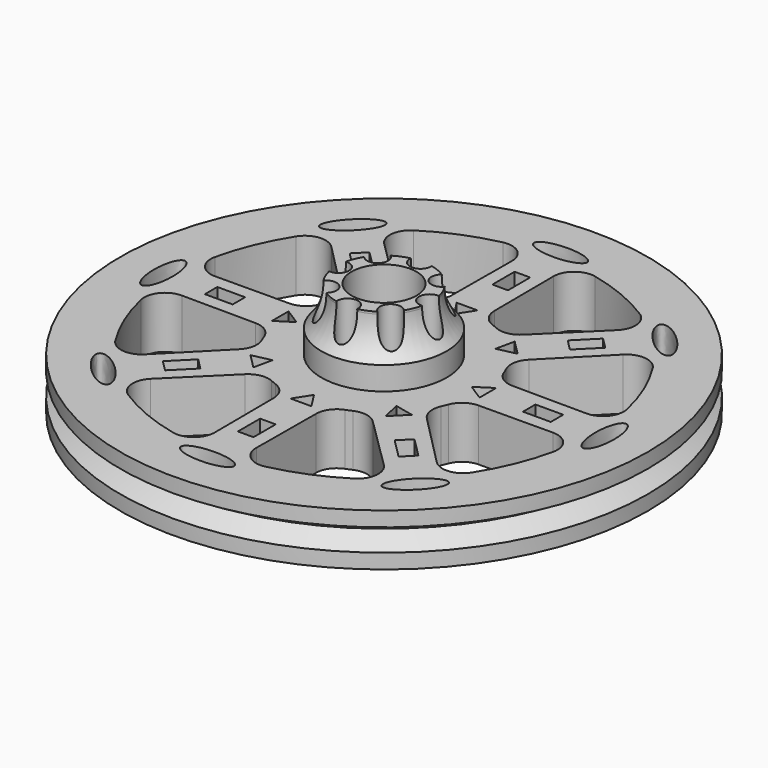
from build123d import *

# Parameters (mm, degrees)
F0_R      = 25.4
F0_R_2    = 3.125
F1_DEPTH  = 2.5
F2_R      = 6.031593
F2_R_2    = 3.125
F3_DEPTH  = 6
F4_R      = 3
F5_DEPTH  = 11.001
F6_R      = 1.008959
F7_DEPTH  = 12.7
F8_R      = 5.08
F13_DEPTH = 12.7
F15_DEPTH = 12.7
F16_W     = 1.5
F16_H     = 2.674383
F16_W_2   = 2.674383
F16_H_2   = 1.5
F17_DEPTH = 12.7


with BuildPart() as f1:
    # F0 (on Top) → F1 (new body, symmetric)
    with BuildSketch(Plane.XY):
        Circle(F0_R)
        with BuildLine():
            ThreePointArc((-10.88453, -17.158945), (-11.801786, -15.683608), (-11.218679, -14.04716))
            Line((-11.218679, -14.04716), (-6.139343, -9.030124))
            ThreePointArc((-6.139343, -9.030124), (-5.086026, -8.484282), (-3.908805, -8.631157))
            ThreePointArc((-3.908805, -8.631157), (-3.625926, -8.753759), (-3.339207, -8.867092))
            ThreePointArc((-3.339207, -8.867092), (-2.40293, -9.595657), (-2.044091, -10.726433))
            Line((-2.044091, -10.726433), (-2.000038, -17.865646))
            ThreePointArc((-2.000038, -17.865646), (-2.744862, -19.435109), (-4.436681, -19.829732))
            ThreePointArc((-4.436681, -19.829732), (-7.776127, -18.773232), (-10.88453, -17.158945))
        make_face(mode=Mode.SUBTRACT)
        with BuildLine():
            ThreePointArc((-19.829732, -4.436681), (-19.435109, -2.744862), (-17.865646, -2.000038))
            Line((-17.865646, -2.000038), (-10.726433, -2.044091))
            ThreePointArc((-10.726433, -2.044091), (-9.595657, -2.40293), (-8.867092, -3.339207))
            ThreePointArc((-8.867092, -3.339207), (-8.753759, -3.625926), (-8.631157, -3.908805))
            ThreePointArc((-8.631157, -3.908805), (-8.484282, -5.086026), (-9.030124, -6.139343))
            Line((-9.030124, -6.139343), (-14.04716, -11.218679))
            ThreePointArc((-14.04716, -11.218679), (-15.683608, -11.801786), (-17.158945, -10.88453))
            ThreePointArc((-17.158945, -10.88453), (-18.773232, -7.776127), (-19.829732, -4.436681))
        make_face(mode=Mode.SUBTRACT)
        Circle(F0_R_2, mode=Mode.SUBTRACT)
        with BuildLine():
            ThreePointArc((4.436681, -19.829732), (2.744862, -19.435109), (2.000038, -17.865646))
            Line((2.000038, -17.865646), (2.044091, -10.726433))
            ThreePointArc((2.044091, -10.726433), (2.40293, -9.595657), (3.339207, -8.867092))
            ThreePointArc((3.339207, -8.867092), (3.625926, -8.753759), (3.908805, -8.631157))
            ThreePointArc((3.908805, -8.631157), (5.086026, -8.484282), (6.139343, -9.030124))
            Line((6.139343, -9.030124), (11.218679, -14.04716))
            ThreePointArc((11.218679, -14.04716), (11.801786, -15.683608), (10.88453, -17.158945))
            ThreePointArc((10.88453, -17.158945), (7.776127, -18.773232), (4.436681, -19.829732))
        make_face(mode=Mode.SUBTRACT)
        with BuildLine():
            ThreePointArc((17.158945, -10.88453), (15.683608, -11.801786), (14.04716, -11.218679))
            Line((14.04716, -11.218679), (9.030124, -6.139343))
            ThreePointArc((9.030124, -6.139343), (8.484282, -5.086026), (8.631157, -3.908805))
            ThreePointArc((8.631157, -3.908805), (8.753759, -3.625926), (8.867092, -3.339207))
            ThreePointArc((8.867092, -3.339207), (9.595657, -2.40293), (10.726433, -2.044091))
            Line((10.726433, -2.044091), (17.865646, -2.000038))
            ThreePointArc((17.865646, -2.000038), (19.435109, -2.744862), (19.829732, -4.436681))
            ThreePointArc((19.829732, -4.436681), (18.773232, -7.776127), (17.158945, -10.88453))
        make_face(mode=Mode.SUBTRACT)
        with BuildLine():
            ThreePointArc((-17.158945, 10.88453), (-15.683608, 11.801786), (-14.04716, 11.218679))
            Line((-14.04716, 11.218679), (-9.030124, 6.139343))
            ThreePointArc((-9.030124, 6.139343), (-8.484282, 5.086026), (-8.631157, 3.908805))
            ThreePointArc((-8.631157, 3.908805), (-8.753759, 3.625926), (-8.867092, 3.339207))
            ThreePointArc((-8.867092, 3.339207), (-9.595657, 2.40293), (-10.726433, 2.044091))
            Line((-10.726433, 2.044091), (-17.865646, 2.000038))
            ThreePointArc((-17.865646, 2.000038), (-19.435109, 2.744862), (-19.829732, 4.436681))
            ThreePointArc((-19.829732, 4.436681), (-18.773232, 7.776127), (-17.158945, 10.88453))
        make_face(mode=Mode.SUBTRACT)
        with BuildLine():
            ThreePointArc((-10.88453, 17.158945), (-7.776127, 18.773232), (-4.436681, 19.829732))
            ThreePointArc((-4.436681, 19.829732), (-2.744862, 19.435109), (-2.000038, 17.865646))
            Line((-2.000038, 17.865646), (-2.044091, 10.726433))
            ThreePointArc((-2.044091, 10.726433), (-2.40293, 9.595657), (-3.339207, 8.867092))
            ThreePointArc((-3.339207, 8.867092), (-3.625926, 8.753759), (-3.908805, 8.631157))
            ThreePointArc((-3.908805, 8.631157), (-5.086026, 8.484282), (-6.139343, 9.030124))
            Line((-6.139343, 9.030124), (-11.218679, 14.04716))
            ThreePointArc((-11.218679, 14.04716), (-11.801786, 15.683608), (-10.88453, 17.158945))
        make_face(mode=Mode.SUBTRACT)
        with BuildLine():
            ThreePointArc((19.829732, 4.436681), (19.435109, 2.744862), (17.865646, 2.000038))
            Line((17.865646, 2.000038), (10.726433, 2.044091))
            ThreePointArc((10.726433, 2.044091), (9.595657, 2.40293), (8.867092, 3.339207))
            ThreePointArc((8.867092, 3.339207), (8.753759, 3.625926), (8.631157, 3.908805))
            ThreePointArc((8.631157, 3.908805), (8.484282, 5.086026), (9.030124, 6.139343))
            Line((9.030124, 6.139343), (14.04716, 11.218679))
            ThreePointArc((14.04716, 11.218679), (15.683608, 11.801786), (17.158945, 10.88453))
            ThreePointArc((17.158945, 10.88453), (18.773232, 7.776127), (19.829732, 4.436681))
        make_face(mode=Mode.SUBTRACT)
        with BuildLine():
            Line((2.044091, 10.726433), (2.000038, 17.865646))
            ThreePointArc((2.000038, 17.865646), (2.744862, 19.435109), (4.436681, 19.829732))
            ThreePointArc((4.436681, 19.829732), (7.776127, 18.773232), (10.88453, 17.158945))
            ThreePointArc((10.88453, 17.158945), (11.801786, 15.683608), (11.218679, 14.04716))
            Line((11.218679, 14.04716), (6.139343, 9.030124))
            ThreePointArc((6.139343, 9.030124), (5.086026, 8.484282), (3.908805, 8.631157))
            ThreePointArc((3.908805, 8.631157), (3.625926, 8.753759), (3.339207, 8.867092))
            ThreePointArc((3.339207, 8.867092), (2.40293, 9.595657), (2.044091, 10.726433))
        make_face(mode=Mode.SUBTRACT)
    extrude(amount=F1_DEPTH, both=True)

    # F2 (on face) → F3 (join)
    with BuildSketch(Plane.XY.offset(2.5)):
        Circle(F2_R)
        Circle(F2_R_2, mode=Mode.SUBTRACT)
    extrude(amount=F3_DEPTH)

    # F4 (on face) → F5 (cut, through all)
    with BuildSketch(Plane.XY.offset(8.5)):
        Circle(F4_R)
    extrude(amount=-F5_DEPTH, mode=Mode.SUBTRACT)

    # F6 (on Top) → F7 (cut, symmetric)
    with BuildSketch(Plane.XY):
        with Locations((0, 4.377856)):
            Circle(F6_R)
        with Locations((-3.095612, 3.095612)):
            Circle(F6_R)
        with Locations((-4.377856, 0)):
            Circle(F6_R)
        with Locations((-3.095612, -3.095612)):
            Circle(F6_R)
        with Locations((0, -4.377856)):
            Circle(F6_R)
        with Locations((3.095612, -3.095612)):
            Circle(F6_R)
        with Locations((4.377856, 0)):
            Circle(F6_R)
        with Locations((3.095612, 3.095612)):
            Circle(F6_R)
    extrude(amount=F7_DEPTH, both=True, mode=Mode.SUBTRACT)

    # F8 (on Front) → F9 (revolve, cut)
    with BuildSketch(Plane.XZ):
        with Locations((-9.666101, 8.286709)):
            Circle(F8_R)
    revolve(axis=Axis((0, 0, 15.557857), (0, 0, 1)), mode=Mode.SUBTRACT)

    # F10 (on Front) → F11 (revolve, cut)
    with BuildSketch(Plane.XZ):
        Polygon((-25.4, 1.075), (-25.5712, 0), (-23.5712, 0), align=None)
        Polygon((-23.5712, 0), (-25.5712, 0), (-25.4, -1.075), align=None)
    revolve(axis=Axis((0, 0, 5.621154), (0, 0, 1)), mode=Mode.SUBTRACT)

    # F12 (on Top) → F13 (cut, symmetric)
    with BuildSketch(Plane.XY):
        with BuildLine():
            add(Edge.make_bspline(
                [(2.557345, 21.235507), (2.557345, 22.792683), (-1.278672, 22.014095), (-5.114689, 21.235507), (-1.278672, 20.456919), (2.557345, 19.678331), (2.557345, 21.235507)],
                knots=[0, 0, 0, 2.094395, 2.094395, 4.18879, 4.18879, 6.283185, 6.283185, 6.283185], degree=2, weights=[1, 0.5, 1, 0.5, 1, 0.5, 1]))
        make_face()
        with BuildLine():
            add(Edge.make_bspline(
                [(-13.207455, 16.824087), (-14.308545, 17.925176), (-16.470474, 14.662158), (-18.632403, 11.399139), (-15.369384, 13.561068), (-12.106366, 15.722997), (-13.207455, 16.824087)],
                knots=[0, 0, 0, 2.094395, 2.094395, 4.18879, 4.18879, 6.283185, 6.283185, 6.283185], degree=2, weights=[1, 0.5, 1, 0.5, 1, 0.5, 1]))
        make_face()
        with BuildLine():
            add(Edge.make_bspline(
                [(-21.235507, 2.557345), (-22.792683, 2.557345), (-22.014095, -1.278672), (-21.235507, -5.114689), (-20.456919, -1.278672), (-19.678331, 2.557345), (-21.235507, 2.557345)],
                knots=[0, 0, 0, 2.094395, 2.094395, 4.18879, 4.18879, 6.283185, 6.283185, 6.283185], degree=2, weights=[1, 0.5, 1, 0.5, 1, 0.5, 1]))
        make_face()
        with BuildLine():
            add(Edge.make_bspline(
                [(-16.824087, -13.207455), (-17.925176, -14.308545), (-14.662158, -16.470474), (-11.399139, -18.632403), (-13.561068, -15.369384), (-15.722997, -12.106366), (-16.824087, -13.207455)],
                knots=[0, 0, 0, 2.094395, 2.094395, 4.18879, 4.18879, 6.283185, 6.283185, 6.283185], degree=2, weights=[1, 0.5, 1, 0.5, 1, 0.5, 1]))
        make_face()
        with BuildLine():
            add(Edge.make_bspline(
                [(-2.557345, -21.235507), (-2.557345, -22.792683), (1.278672, -22.014095), (5.114689, -21.235507), (1.278672, -20.456919), (-2.557345, -19.678331), (-2.557345, -21.235507)],
                knots=[0, 0, 0, 2.094395, 2.094395, 4.18879, 4.18879, 6.283185, 6.283185, 6.283185], degree=2, weights=[1, 0.5, 1, 0.5, 1, 0.5, 1]))
        make_face()
        with BuildLine():
            add(Edge.make_bspline(
                [(13.207455, -16.824087), (14.308545, -17.925176), (16.470474, -14.662158), (18.632403, -11.399139), (15.369384, -13.561068), (12.106366, -15.722997), (13.207455, -16.824087)],
                knots=[0, 0, 0, 2.094395, 2.094395, 4.18879, 4.18879, 6.283185, 6.283185, 6.283185], degree=2, weights=[1, 0.5, 1, 0.5, 1, 0.5, 1]))
        make_face()
        with BuildLine():
            add(Edge.make_bspline(
                [(21.235507, -2.557345), (22.792683, -2.557345), (22.014095, 1.278672), (21.235507, 5.114689), (20.456919, 1.278672), (19.678331, -2.557345), (21.235507, -2.557345)],
                knots=[0, 0, 0, 2.094395, 2.094395, 4.18879, 4.18879, 6.283185, 6.283185, 6.283185], degree=2, weights=[1, 0.5, 1, 0.5, 1, 0.5, 1]))
        make_face()
        with BuildLine():
            add(Edge.make_bspline(
                [(16.824087, 13.207455), (17.925176, 14.308545), (14.662158, 16.470474), (11.399139, 18.632403), (13.561068, 15.369384), (15.722997, 12.106366), (16.824087, 13.207455)],
                knots=[0, 0, 0, 2.094395, 2.094395, 4.18879, 4.18879, 6.283185, 6.283185, 6.283185], degree=2, weights=[1, 0.5, 1, 0.5, 1, 0.5, 1]))
        make_face()
    extrude(amount=F13_DEPTH, both=True, mode=Mode.SUBTRACT)

    # F14 (on Top) → F15 (cut, symmetric)
    with BuildSketch(Plane.XY):
        Polygon((1, 9.991848), (0, 9.991848), (0, 8.426901), align=None)
        Polygon((0, 8.426901), (0, 9.991848), (-1, 9.991848), align=None)
        Polygon((-7.065303, 7.065303), (-7.77241, 6.358197), (-5.958719, 5.958719), (-6.358197, 7.77241), align=None)
        Polygon((-9.991848, 0), (-9.991848, -1), (-8.426901, 0), (-9.991848, 1), align=None)
        Polygon((-7.065303, -7.065303), (-6.358197, -7.77241), (-5.958719, -5.958719), (-7.77241, -6.358197), align=None)
        Polygon((0, -9.991848), (1, -9.991848), (0, -8.426901), (-1, -9.991848), align=None)
        Polygon((7.065303, -7.065303), (7.77241, -6.358197), (5.958719, -5.958719), (6.358197, -7.77241), align=None)
        Polygon((9.991848, 0), (9.991848, 1), (8.426901, 0), (9.991848, -1), align=None)
        Polygon((7.065303, 7.065303), (6.358197, 7.77241), (5.958719, 5.958719), (7.77241, 6.358197), align=None)
    extrude(amount=F15_DEPTH, both=True, mode=Mode.SUBTRACT)

    # F16 (on Top) → F17 (cut, symmetric)
    with BuildSketch(Plane.XY):
        with Locations((0, 15.307191)):
            Rectangle(F16_W, F16_H)
        Polygon((-11.239026, 12.299686), (-12.299686, 11.239026), (-10.408612, 9.347952), (-9.347952, 10.408612), align=None)
        with Locations((-15.307191, 0)):
            Rectangle(F16_W_2, F16_H_2)
        Polygon((-10.408612, -9.347952), (-12.299686, -11.239026), (-11.239026, -12.299686), (-9.347952, -10.408612), align=None)
        with Locations((0, -15.307191)):
            Rectangle(F16_W, F16_H)
        Polygon((9.347952, -10.408612), (11.239026, -12.299686), (12.299686, -11.239026), (10.408612, -9.347952), align=None)
        with Locations((15.307191, 0)):
            Rectangle(F16_W_2, F16_H_2)
        Polygon((10.408612, 9.347952), (12.299686, 11.239026), (11.239026, 12.299686), (9.347952, 10.408612), align=None)
    extrude(amount=F17_DEPTH, both=True, mode=Mode.SUBTRACT)


solid = f1.part
